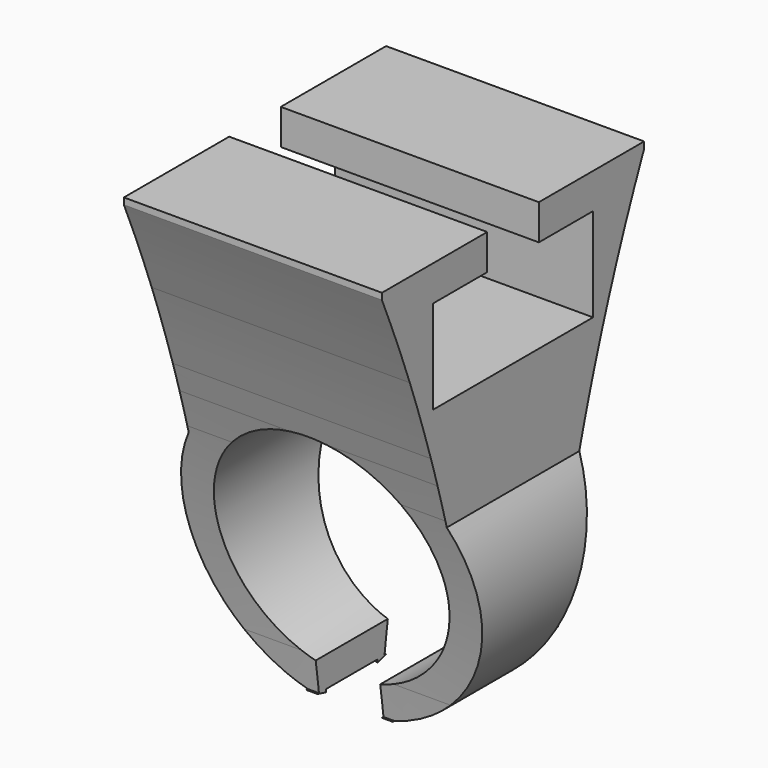
from build123d import *

# Parameters (mm, degrees)
F1_DEPTH = 12.7
F2_W     = 5
F2_H     = 0.5081468204
F3_DEPTH = 12.7


with BuildPart() as f1:
    # F0 (on Front) → F1 (new body, symmetric)
    with BuildSketch(Plane.XZ):
        with BuildLine():
            ThreePointArc((-2.5, -8.6458082329), (0, 9), (2.5, -8.6458082329))
            Line((2.5, -8.6458082329), (2.5, -11.2249721603))
            ThreePointArc((2.5, -11.2249721603), (10.5117930935, -4.6639260241), (10, 5.6789083458))
            ThreePointArc((10, 5.6789083458), (0, 11.5), (-10, 5.6789083458))
            ThreePointArc((-10, 5.6789083458), (-10.5117930935, -4.6639260241), (-2.5, -11.2249721603))
            Line((-2.5, -11.2249721603), (-2.5, -8.6458082329))
        make_face()
        with BuildLine():
            ThreePointArc((-10, 5.6789083458), (0, 11.5), (10, 5.6789083458))
            Line((10, 5.6789083458), (10, 11.5))
            Line((10, 11.5), (10, 24.25))
            Line((10, 24.25), (2.5, 24.25))
            Line((2.5, 24.25), (-2.5, 24.25))
            Line((-2.5, 24.25), (-10, 24.25))
            Line((-10, 24.25), (-10, 11.5))
            Line((-10, 11.5), (-10, 5.6789083458))
        make_face()
    extrude(amount=F1_DEPTH, both=True)

    # F2 (on Right) → F3 (cut, symmetric)
    with BuildSketch(Plane.YZ):
        with BuildLine():
            Line((-12.7, 11), (-9.999146387, 11))
            Line((-9.999146387, 11), (-9.999146387, 11.5081468204))
            Line((-9.999146387, 11.5081468204), (-9.999146387, 17.0131495997))
            ThreePointArc((-9.999146387, 17.0131495997), (-11.3014367737, 20.4008730498), (-12.7, 23.75))
            Line((-12.7, 23.75), (-12.7, 11))
        make_face()
        with Locations((0.000853613, 24.0040734102)):
            Rectangle(F2_W, F2_H)
        with BuildLine():
            Line((10.000853613, 11), (12.7, 11))
            Line((12.7, 11), (12.7, 23.75))
            ThreePointArc((12.7, 23.75), (11.3023562764, 20.4031665386), (10.000853613, 17.0177872374))
            Line((10.000853613, 17.0177872374), (10.000853613, 11.5081468204))
            Line((10.000853613, 11.5081468204), (10.000853613, 11))
        make_face()
        with BuildLine():
            Line((7.9549180029, 11), (10.000853613, 11))
            Line((10.000853613, 11), (10.000853613, 11.5081468204))
            Line((10.000853613, 11.5081468204), (10.000853613, 17.0177872374))
            ThreePointArc((10.000853613, 17.0177872374), (8.9402327942, 14.0216949423), (7.9549180029, 11))
        make_face()
        with BuildLine():
            Line((-9.999146387, 11), (-7.9549180029, 11))
            ThreePointArc((-7.9549180029, 11), (-8.9394374516, 14.0193554966), (-9.999146387, 17.0131495997))
            Line((-9.999146387, 17.0131495997), (-9.999146387, 11.5081468204))
            Line((-9.999146387, 11.5081468204), (-9.999146387, 11))
        make_face()
        with BuildLine():
            ThreePointArc((-7.3137125104, 8.8821043606), (-7.6297024253, 9.9424487424), (-7.9549180029, 11))
            Line((-7.9549180029, 11), (-9.999146387, 11))
            Line((-9.999146387, 11), (-9.999146387, 5.6870551662))
            ThreePointArc((-9.999146387, 5.6870551662), (-8.8025908747, 7.4074282146), (-7.3137125104, 8.8821043606))
        make_face()
        with BuildLine():
            Line((-12.7, 11), (-12.7, -11))
            Line((-12.7, -11), (-3.3264130702, -11))
            ThreePointArc((-3.3264130702, -11), (-10.6770891589, -4.2616937105), (-9.999146387, 5.6870551662))
            Line((-9.999146387, 5.6870551662), (-9.999146387, 11))
            Line((-9.999146387, 11), (-12.7, 11))
        make_face()
        with BuildLine():
            Line((10.000853613, 5.6870551662), (10.000853613, 11))
            Line((10.000853613, 11), (7.9549180029, 11))
            ThreePointArc((7.9549180029, 11), (7.6298735118, 9.9430138349), (7.314044827, 8.8832374829))
            ThreePointArc((7.314044827, 8.8832374829), (8.8037248976, 7.408110141), (10.000853613, 5.6870551662))
        make_face()
        with BuildLine():
            Line((12.7, -11), (12.7, 11))
            Line((12.7, 11), (10.000853613, 11))
            Line((10.000853613, 11), (10.000853613, 5.6870551662))
            ThreePointArc((10.000853613, 5.6870551662), (10.678796385, -4.2616937105), (3.3281202962, -11))
            Line((3.3281202962, -11), (12.5679420307, -11))
            Line((12.5679420307, -11), (12.7, -11))
        make_face()
        with BuildLine():
            ThreePointArc((3.3281202962, -11), (10.678796385, -4.2616937105), (10.000853613, 5.6870551662))
            ThreePointArc((10.000853613, 5.6870551662), (8.8037248976, 7.408110141), (7.314044827, 8.8832374829))
            ThreePointArc((7.314044827, 8.8832374829), (6.9260805224, 7.5327733856), (6.5530808328, 6.1780996938))
            ThreePointArc((6.5530808328, 6.1780996938), (8.8123094834, -1.8244048007), (3.5497974059, -8.2625845835))
            ThreePointArc((3.5497974059, -8.2625845835), (3.3549542371, -9.6302730213), (3.175, -11))
            Line((3.175, -11), (3.3281202962, -11))
        make_face()
        with BuildLine():
            ThreePointArc((3.5497974059, -8.2625845835), (8.8123094834, -1.8244048007), (6.5530808328, 6.1780996938))
            ThreePointArc((6.5530808328, 6.1780996938), (4.8416208698, -0.9986057543), (3.5497974059, -8.2625845835))
        make_face()
        with BuildLine():
            ThreePointArc((-3.5499132309, -8.2618020803), (-4.8415527422, -0.9989333343), (-6.5527010025, 6.1766897522))
            ThreePointArc((-6.5527010025, 6.1766897522), (-8.8106070853, -1.8243815864), (-3.5499132309, -8.2618020803))
        make_face()
        with BuildLine():
            ThreePointArc((-6.5527010025, 6.1766897522), (-6.9257229394, 7.5315021944), (-7.3137125104, 8.8821043606))
            ThreePointArc((-7.3137125104, 8.8821043606), (-8.8025908747, 7.4074282146), (-9.999146387, 5.6870551662))
            ThreePointArc((-9.999146387, 5.6870551662), (-10.6770891589, -4.2616937105), (-3.3264130702, -11))
            Line((-3.3264130702, -11), (-3.175, -11))
            ThreePointArc((-3.175, -11), (-3.3550078896, -9.6298811629), (-3.5499132309, -8.2618020803))
            ThreePointArc((-3.5499132309, -8.2618020803), (-8.8106070853, -1.8243815864), (-6.5527010025, 6.1766897522))
        make_face()
        with BuildLine():
            Line((12.5679420307, -24.2508184165), (12.5679420307, -11))
            Line((12.5679420307, -11), (3.3281202962, -11))
            ThreePointArc((3.3281202962, -11), (2.9165032072, -11.1161053992), (2.500853613, -11.2168253399))
            Line((2.500853613, -11.2168253399), (2.500853613, -11))
            Line((2.500853613, -11), (0, -11))
            Line((0, -11), (-2.499146387, -11))
            Line((-2.499146387, -11), (-2.499146387, -11.2168253399))
            ThreePointArc((-2.499146387, -11.2168253399), (-2.9147959812, -11.1161053992), (-3.3264130702, -11))
            Line((-3.3264130702, -11), (-12.7, -11))
            Line((-12.7, -11), (-12.7, -24.2508184165))
            Line((-12.7, -24.2508184165), (12.5679420307, -24.2508184165))
        make_face()
        Polygon((2.500853613, 21.5081468204), (2.500853613, 23.75), (-2.499146387, 23.75), (-2.499146387, 21.5081468204), (-7.749146387, 21.5081468204), (-7.749146387, 14.2581468204), (7.750853613, 14.2581468204), (7.750853613, 21.5081468204), align=None)
    extrude(amount=F3_DEPTH, both=True, mode=Mode.SUBTRACT)


solid = f1.part
